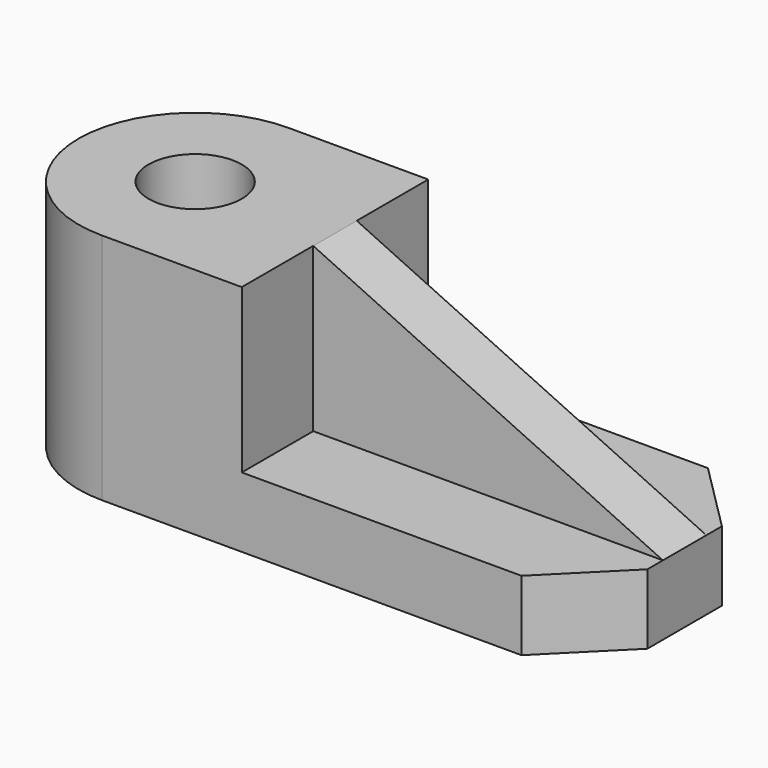
from build123d import *

# Parameters (mm, degrees)
F1_DEPTH = 76.2
F3_D     = 30.48
F2_W     = 114.3
F2_H     = 29.21
F4_DEPTH = 53.34
F6_DEPTH = 17.78
F8_DEPTH = 22.86


with BuildPart() as f1:
    # F0 (on Top) → F1 (new body)
    with BuildSketch(Plane.XY):
        with BuildLine():
            ThreePointArc((0, 38.1), (11.159232, 11.159232), (38.1, 0))
            Line((38.1, 0), (198.12, 0))
            Line((198.12, 0), (198.12, 76.2))
            Line((198.12, 76.2), (38.1, 76.2))
            ThreePointArc((38.1, 76.2), (11.159232, 65.040768), (0, 38.1))
        make_face()
    extrude(amount=F1_DEPTH)

    # F3 (through all)
    with Locations(Plane.XY.offset(76.2)):
        with Locations((38.1, 38.1)):
            Hole(F3_D / 2)

    # F2 (on face) → F4 (cut)
    with BuildSketch(Plane.XY.offset(76.2)):
        with Locations((140.97, 61.595)):
            Rectangle(F2_W, F2_H)
        with Locations((140.97, 14.605)):
            Rectangle(F2_W, F2_H)
    extrude(amount=-F4_DEPTH, mode=Mode.SUBTRACT)

    # F5 (on face) → F6 (cut)
    with BuildSketch(Plane.XZ.offset(-29.21)):
        Polygon((198.12, 76.2), (83.82, 76.2), (198.12, 22.86), align=None)
    extrude(amount=-F6_DEPTH, mode=Mode.SUBTRACT)

    # F7 (on face) → F8 (cut)
    with BuildSketch(Plane(origin=(0, 0, 0), x_dir=(1, 0, 0), z_dir=(0, 0, -1))):
        Polygon((198.12, 0), (175.26, 0), (198.12, -22.86), align=None)
        Polygon((198.12, -76.2), (198.12, -53.34), (175.26, -76.2), align=None)
    extrude(amount=-F8_DEPTH, mode=Mode.SUBTRACT)


solid = f1.part
